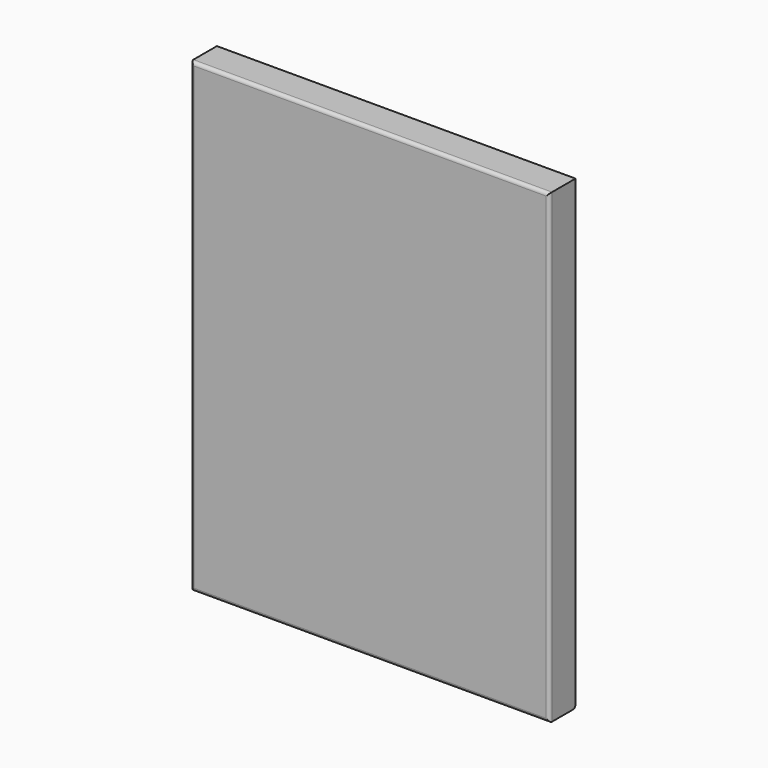
from build123d import *

# Parameters (mm, degrees)
F0_W     = 110
F0_H     = 143
F1_DEPTH = 10
F2_R     = 1


with BuildPart() as f1:
    # F0 (on Front) → F1 (new body)
    with BuildSketch(Plane.XZ):
        with Locations((-55, 71.5)):
            Rectangle(F0_W, F0_H)
    extrude(amount=F1_DEPTH)

    # F2
    f2_edges = [f1.edges().sort_by_distance(p)[0] for p in [
        (0, -10, 71.5),
        (-110, -10, 71.5),
        (-55, 0, 0),
        (-55, -10, 0),
        (-55, -10, 143),
    ]]
    fillet(f2_edges, radius=F2_R)


solid = f1.part
